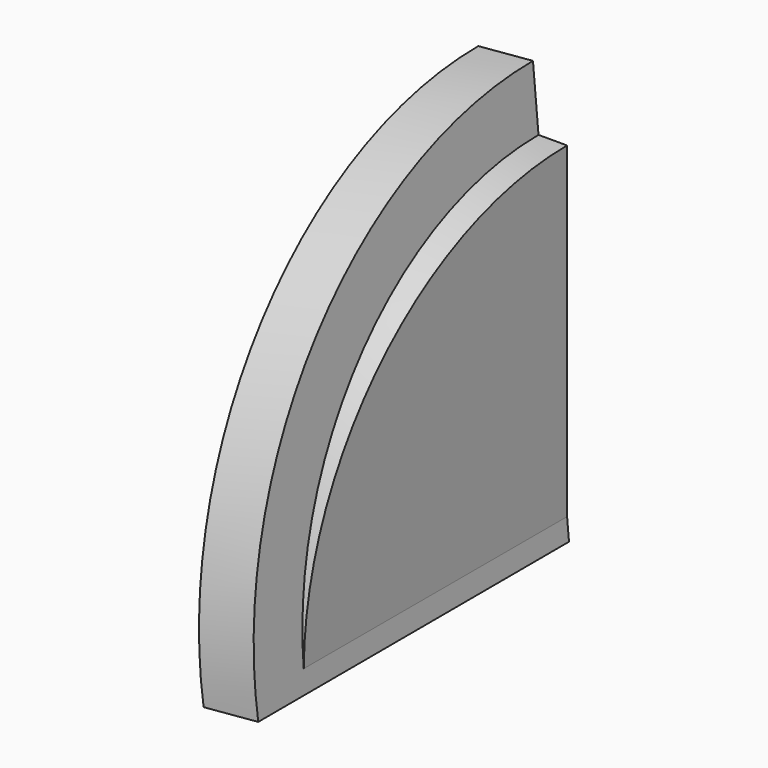
from build123d import *

# Parameters (mm, degrees)
F0_R     = 38.1
F1_DEPTH = 6.35
F4_R     = 45.0533398
F5_DEPTH = 6.35
F9_DEPTH = 50.8


with BuildPart() as f1:
    # F0 (on Right) → F1 (new body)
    with BuildSketch(Plane.YZ):
        Circle(F0_R)
    extrude(amount=F1_DEPTH)

    # F4 (on line) → F5 (join)
    with BuildSketch(Plane(origin=(0, 0, 0), x_dir=(0, 1, 0), z_dir=(0.9961946981, 0, 0.0871557427))):
        Circle(F4_R)
    extrude(amount=F5_DEPTH)

    # F8 (on offset) → F9 (cut)
    with BuildSketch(Plane(origin=(31.6291816644, 0, 2.7671948322), x_dir=(0, 1, 0), z_dir=(0.9961946981, 0, 0.0871557427))):
        Polygon((0, 54.2062856257), (0, -2.7743342798), (-63.262976706, -2.8825730551), (-87.0150923729, -54.4917583466), (75.6417736411, -57.2080314159), (68.2347118855, 54.2062856257), align=None)
    extrude(amount=-F9_DEPTH, mode=Mode.SUBTRACT)


solid = f1.part
